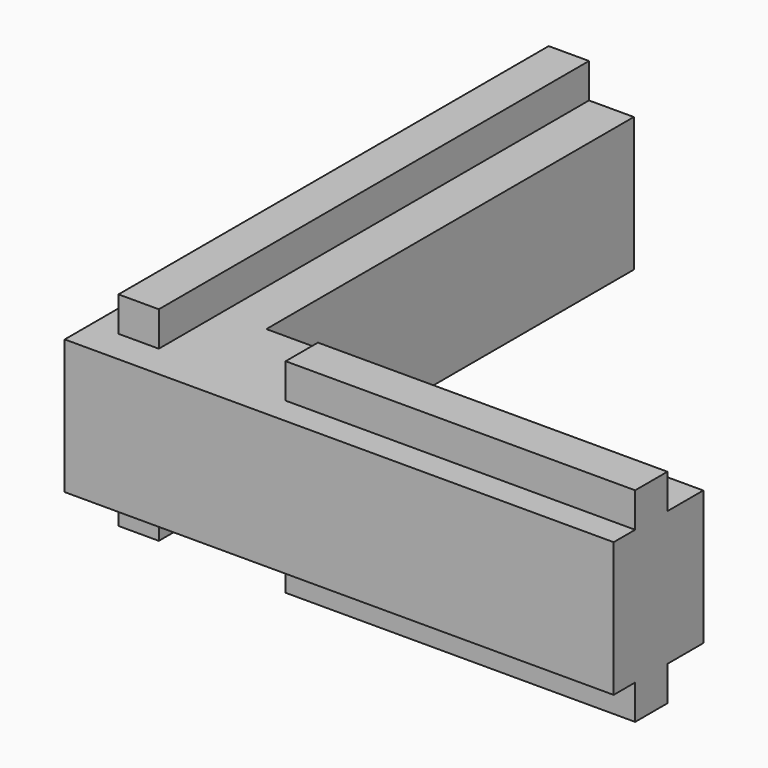
from build123d import *

# Parameters (mm, degrees)
PAD003_DEPTH  = 3
SKETCH006_W   = 1.8
SKETCH006_H   = 24
SKETCH006_W_2 = 15.6
SKETCH006_H_2 = 1.8
PAD004_DEPTH  = 1.55


with BuildPart() as part:
    # Sketch005 → Pad003 (new body, symmetric)
    with BuildSketch(Plane.XY):
        Polygon((-5, 30.5), (-5, 5), (19.5, 5), (19.5, 10), (0, 10), (0, 30.5), align=None)
    extrude(amount=PAD003_DEPTH, both=True)

    # Sketch006 (on Face8 of Pad003) → Pad004 (join)
    with BuildSketch(Plane.XY.offset(3)):
        with Locations((-2.9, 18.5)):
            Rectangle(SKETCH006_W, SKETCH006_H)
        with Locations((11.7, 7.1)):
            Rectangle(SKETCH006_W_2, SKETCH006_H_2)
    pad004 = extrude(amount=PAD004_DEPTH)

    # Mirrored001: Pad004 across XY
    add(pad004.mirror(Plane.XY))


solid = part.part
